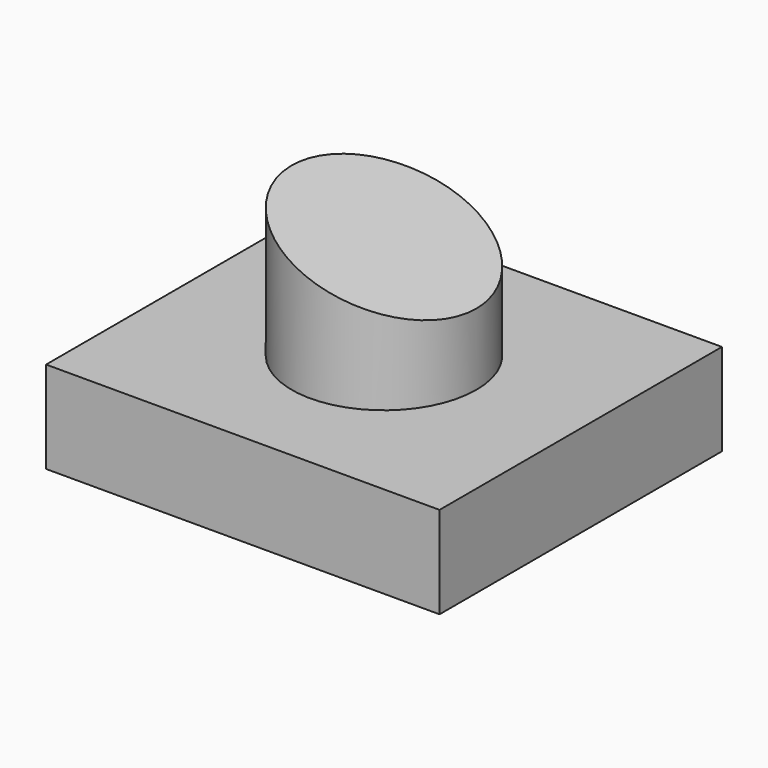
from build123d import *

# Parameters (mm, degrees)
F0_W     = 108.696282
F0_H     = 97.515046
F1_DEPTH = 25.4
F2_R     = 25.511532
F3_DEPTH = 38.1
F5_DEPTH = 63.5


with BuildPart() as f1:
    # F0 (on Top) → F1 (new body)
    with BuildSketch(Plane.XY):
        Rectangle(F0_W, F0_H)
    extrude(amount=-F1_DEPTH)

    # F2 (on Top) → F3 (join)
    with BuildSketch(Plane.XY):
        Circle(F2_R)
    extrude(amount=F3_DEPTH)

    # F4 (on Front) → F5 (cut, symmetric)
    with BuildSketch(Plane.XZ):
        Polygon((25.862852, 41.473117), (-35.257578, 41.473117), (25.597604, 19.722745), align=None)
    extrude(amount=F5_DEPTH, both=True, mode=Mode.SUBTRACT)


solid = f1.part
